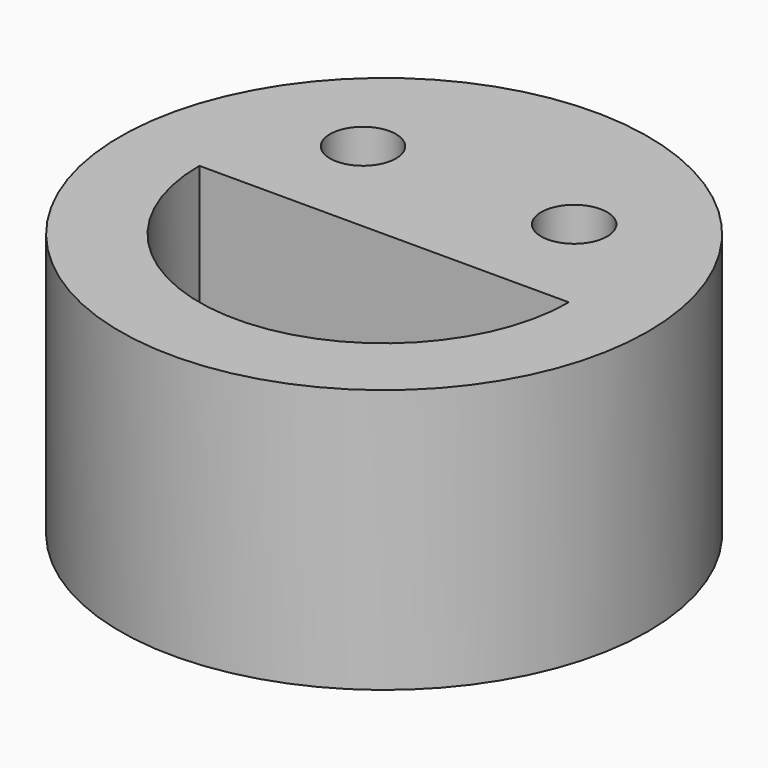
from build123d import *

# Parameters (mm, degrees)
F0_R     = 25.4
F0_R_2   = 3.175
F1_DEPTH = 25.4


with BuildPart() as f1:
    # F0 (on Top) → F1 (new body)
    with BuildSketch(Plane.XY):
        Circle(F0_R)
        with BuildLine():
            Line((-17.78, 0), (17.78, 0))
            ThreePointArc((17.78, 0), (0, -17.78), (-17.78, 0))
        make_face(mode=Mode.SUBTRACT)
        with Locations((-10.16, 10.16)):
            Circle(F0_R_2, mode=Mode.SUBTRACT)
        with Locations((10.16, 10.16)):
            Circle(F0_R_2, mode=Mode.SUBTRACT)
    extrude(amount=F1_DEPTH)


solid = f1.part
